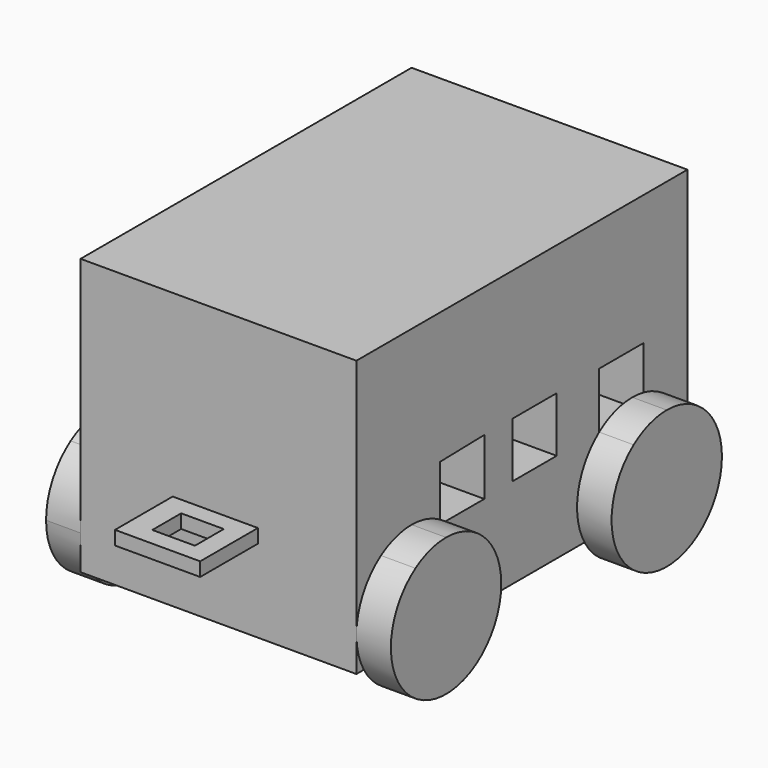
from build123d import *

# Parameters (mm, degrees)
F0_W      = 76.2
F0_H      = 50.8
F1_DEPTH  = 50.8
F2_W      = 10.16
F2_H      = 10.16
F2_H_2    = 11.009983
F3_DEPTH  = 50.8
F5_DEPTH  = 6.35
F7_DEPTH  = 6.35
F8_W      = 7.62
F8_H      = 6.35
F8_W_2    = 7.844116
F8_H_2    = 6.644809
F9_DEPTH  = 35.56
F10_DEPTH = 33.02


with BuildPart() as f1:
    # F0 (on Right) → F1 (new body)
    with BuildSketch(Plane.YZ):
        with Locations((18.823405, -16.371597)):
            Rectangle(F0_W, F0_H)
    extrude(amount=F1_DEPTH)

    # F2 (on face) → F3 (cut)
    with BuildSketch(Plane.YZ.offset(50.8)):
        Polygon((10.157681, -14.971033), (0, -15.188088), (0, -25.348088), (10.157681, -25.348088), align=None)
        with Locations((21.746397, -20.051033)):
            Rectangle(F2_W, F2_H)
        with Locations((41.683405, -20.476025)):
            Rectangle(F2_W, F2_H_2)
    extrude(amount=-F3_DEPTH, mode=Mode.SUBTRACT)

    # F8 (on face) → F9 (join)
    with BuildSketch(Plane.XY.offset(9.028403)):
        Polygon((17.78, 56.923405), (25.4, 56.923405), (33.02, 56.923405), (33.02, 69.623405), (17.78, 69.623405), (17.78, 63.273405), align=None)
        with Locations((25.4, 63.273405)):
            Rectangle(F8_W, F8_H, mode=Mode.SUBTRACT)
        Polygon((32.660052, -19.276595), (25.4, -19.276595), (16.971819, -19.276595), (16.971819, -32.566212), (32.660052, -32.566212), (32.660052, -25.921404), align=None)
        with Locations((25.107968, -25.921403)):
            Rectangle(F8_W_2, F8_H_2, mode=Mode.SUBTRACT)
    extrude(amount=-F9_DEPTH)

    # F8 (on face) → F10 (cut)
    with BuildSketch(Plane.XY.offset(9.028403)):
        Polygon((17.78, 56.923405), (25.4, 56.923405), (33.02, 56.923405), (33.02, 69.623405), (17.78, 69.623405), (17.78, 63.273405), align=None)
        with Locations((25.4, 63.273405)):
            Rectangle(F8_W, F8_H, mode=Mode.SUBTRACT)
        Polygon((32.660052, -19.276595), (25.4, -19.276595), (16.971819, -19.276595), (16.971819, -32.566212), (32.660052, -32.566212), (32.660052, -25.921404), align=None)
        with Locations((25.107968, -25.921403)):
            Rectangle(F8_W_2, F8_H_2, mode=Mode.SUBTRACT)
    extrude(amount=-F10_DEPTH, mode=Mode.SUBTRACT)


with BuildPart() as f5:
    # F4 (on face) → F5 (new body)
    with BuildSketch(Plane(origin=(0, 0, 0), x_dir=(0, -1, 0), z_dir=(-1, 0, 0))):
        with BuildLine():
            ThreePointArc((-52.312775, -25.631189), (-49.634273, -46.911266), (-31.523405, -35.421597))
            ThreePointArc((-31.523405, -35.421597), (-35.243149, -26.441341), (-44.223405, -22.721597))
            Line((-44.223405, -22.721597), (-44.223405, -35.421597))
            Line((-44.223405, -35.421597), (-52.312775, -25.631189))
        make_face()
        with BuildLine():
            Line((-44.223405, -35.421597), (-44.223405, -22.721597))
            ThreePointArc((-44.223405, -22.721597), (-48.521766, -23.471112), (-52.312775, -25.631189))
            Line((-52.312775, -25.631189), (-44.223405, -35.421597))
        make_face()
        with BuildLine():
            ThreePointArc((6.576595, -22.721597), (-2.403661, -44.401853), (19.276595, -35.421597))
            ThreePointArc((19.276595, -35.421597), (17.773863, -29.429001), (13.621288, -24.854558))
            Line((13.621288, -24.854558), (6.576595, -35.421597))
            Line((6.576595, -35.421597), (6.576595, -22.721597))
        make_face()
        with BuildLine():
            Line((6.576595, -35.421597), (13.621288, -24.854558))
            ThreePointArc((13.621288, -24.854558), (10.256854, -23.266528), (6.576595, -22.721597))
            Line((6.576595, -22.721597), (6.576595, -35.421597))
        make_face()
    extrude(amount=F5_DEPTH)


with BuildPart() as f7:
    # F6 (on face) → F7 (new body)
    with BuildSketch(Plane.YZ.offset(50.8)):
        with BuildLine():
            ThreePointArc((-13.621288, -24.854558), (-12.569191, -46.618864), (6.123405, -35.421597))
            ThreePointArc((6.123405, -35.421597), (2.403661, -26.441341), (-6.576595, -22.721597))
            Line((-6.576595, -22.721597), (-6.576595, -35.421597))
            Line((-6.576595, -35.421597), (-13.621288, -24.854558))
        make_face()
        with BuildLine():
            Line((-6.576595, -35.421597), (-6.576595, -22.721597))
            ThreePointArc((-6.576595, -22.721597), (-10.256854, -23.266528), (-13.621288, -24.854558))
            Line((-13.621288, -24.854558), (-6.576595, -35.421597))
        make_face()
        with BuildLine():
            ThreePointArc((44.223405, -22.721597), (40.207312, -23.373319), (36.603405, -25.261597))
            ThreePointArc((36.603405, -25.261597), (38.543792, -46.780822), (56.923405, -35.421597))
            ThreePointArc((56.923405, -35.421597), (55.420672, -29.429001), (51.268097, -24.854558))
            Line((51.268097, -24.854558), (44.223405, -35.421597))
            Line((44.223405, -35.421597), (44.223405, -22.721597))
        make_face()
        with BuildLine():
            ThreePointArc((51.268097, -24.854558), (47.903663, -23.266528), (44.223405, -22.721597))
            Line((44.223405, -22.721597), (44.223405, -35.421597))
            Line((44.223405, -35.421597), (51.268097, -24.854558))
        make_face()
    extrude(amount=F7_DEPTH)


solid = Compound([f1.part, f5.part, f7.part])
